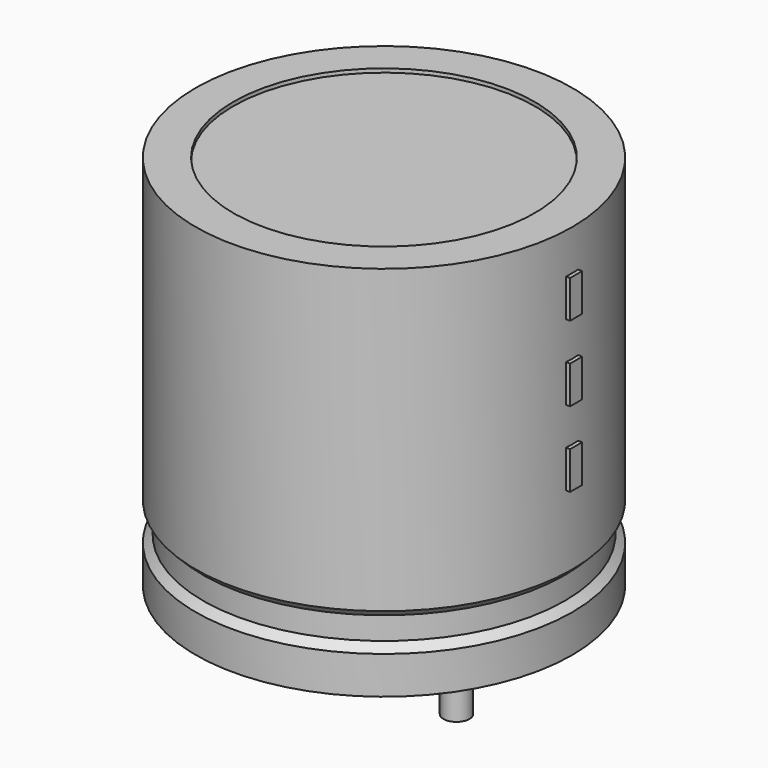
from build123d import *

# Parameters (mm, degrees)
SKETCH002_W  = 5.98
SKETCH002_H  = 12.74
SKETCH003_R  = 0.45
PAD_DEPTH    = 4.3
SKETCH004_W  = 0.52
SKETCH004_H  = 1.3
PAD001_DEPTH = 6.63


with BuildPart() as revolution:
    # Sketch → Revolution (revolve)
    with BuildSketch(Plane.XZ):
        Polygon((-4, 0.1), (-4, 1.4), (-3.74, 1.66), (-3.74, 2.44), (-4, 2.7), (-4, 13.1), (-2.7, 13.1), (-2.7, 0.1), align=None)
    revolve(axis=Axis((2.5, 0, 7.548619), (0, 0, -1)))


with BuildPart() as revolution001:
    # Sketch002 → Revolution001 (revolve)
    with BuildSketch(Plane.XZ):
        with Locations((-0.49, 6.6)):
            Rectangle(SKETCH002_W, SKETCH002_H)
    revolve(axis=Axis((2.5, 0, 4.680116), (0, 0, -1)))


with BuildPart() as pad:
    # Sketch003 → Pad (new body)
    with BuildSketch(Plane.XY.offset(1.3)):
        Circle(SKETCH003_R)
        with Locations((5, 0)):
            Circle(SKETCH003_R)
    extrude(amount=-PAD_DEPTH)


with BuildPart() as pad001:
    # Sketch004 → Pad001 (new body)
    with BuildSketch(Plane.YZ.offset(2.5)):
        with Locations((0, 5.85)):
            Rectangle(SKETCH004_W, SKETCH004_H)
        with Locations((0, 8.45)):
            Rectangle(SKETCH004_W, SKETCH004_H)
        with Locations((0, 11.05)):
            Rectangle(SKETCH004_W, SKETCH004_H)
    extrude(amount=PAD001_DEPTH)


solid = Compound([revolution.part, revolution001.part, pad.part, pad001.part])
